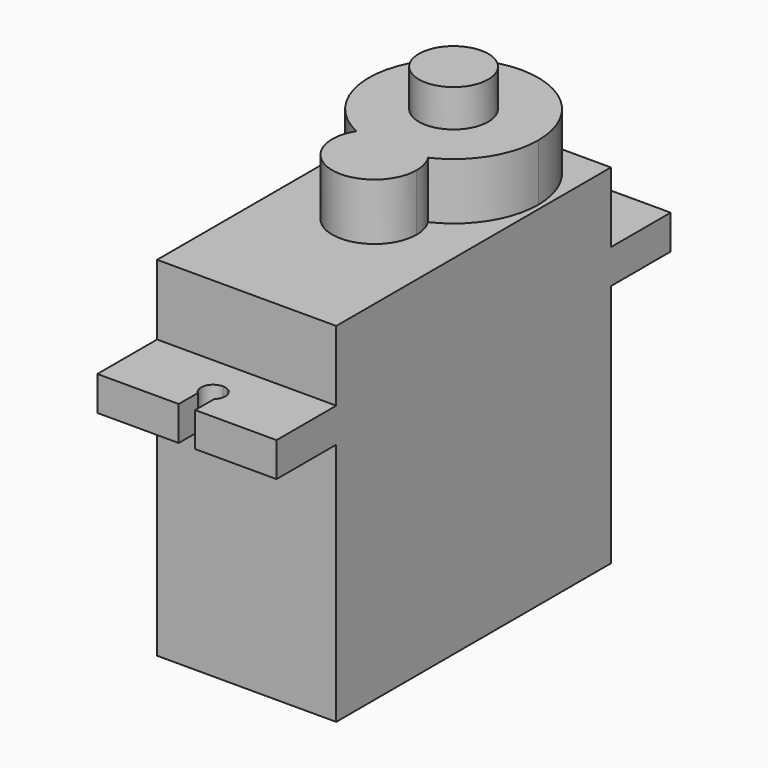
from build123d import *

# Parameters (mm, degrees)
F0_W          = 12
F0_H          = 23
F1_DEPTH      = 23.35
F2_W          = 12
F2_H          = 2.3
F3_DEPTH      = 5
F3_DEPTH_BACK = 28
F5_DEPTH      = 3.8
F6_R          = 2.325
F7_DEPTH      = 2.5
F9_DEPTH      = 25
F11_DEPTH     = 25


with BuildPart() as f1:
    # F0 (on Top) → F1 (new body)
    with BuildSketch(Plane.XY):
        Rectangle(F0_W, F0_H)
    extrude(amount=F1_DEPTH)

    # F2 (on face) → F3 (join, two sides)
    with BuildSketch(Plane.XZ.offset(11.5)) as f3_sk:
        with Locations((0, 17.5)):
            Rectangle(F2_W, F2_H)
    extrude(amount=F3_DEPTH)
    extrude(f3_sk.sketch, amount=-F3_DEPTH_BACK)

    # F4 (on face) → F5 (join)
    with BuildSketch(Plane.XY.offset(23.35)):
        with BuildLine():
            ThreePointArc((5.675, 5.825), (4.0128309832, 9.8378309832), (0, 11.5))
            Line((0, 11.5), (0, 5.825))
            Line((0, 5.825), (0, 2.025))
            ThreePointArc((0, 2.025), (1.3761840956, 1.6671324113), (2.4037015124, 0.6841981132))
            ThreePointArc((2.4037015124, 0.6841981132), (4.7878299407, 2.7783117228), (5.675, 5.825))
        make_face()
        with BuildLine():
            Line((0, 5.825), (0, 11.5))
            ThreePointArc((0, 11.5), (-5.5398409592, 7.0561730773), (-2.4037015124, 0.6841981132))
            ThreePointArc((-2.4037015124, 0.6841981132), (-1.3761840956, 1.6671324113), (0, 2.025))
            Line((0, 2.025), (0, 5.825))
        make_face()
        with BuildLine():
            ThreePointArc((0, 2.025), (-1.3761840956, 1.6671324113), (-2.4037015124, 0.6841981132))
            ThreePointArc((-2.4037015124, 0.6841981132), (-1.2311730773, 0.2851590408), (0, 0.15))
            Line((0, 0.15), (0, 2.025))
        make_face()
        with BuildLine():
            ThreePointArc((0, 0.15), (-1.2311730773, 0.2851590408), (-2.4037015124, 0.6841981132))
            ThreePointArc((-2.4037015124, 0.6841981132), (-0.7714169519, -3.5176351643), (2.825, -0.8))
            ThreePointArc((2.825, -0.8), (2.7176351643, -0.0285830481), (2.4037015124, 0.6841981132))
            ThreePointArc((2.4037015124, 0.6841981132), (1.2311730773, 0.2851590408), (0, 0.15))
        make_face()
        with BuildLine():
            ThreePointArc((2.4037015124, 0.6841981132), (1.3761840956, 1.6671324113), (0, 2.025))
            Line((0, 2.025), (0, 0.15))
            ThreePointArc((0, 0.15), (1.2311730773, 0.2851590408), (2.4037015124, 0.6841981132))
        make_face()
    extrude(amount=F5_DEPTH)

    # F6 (on face) → F7 (join)
    with BuildSketch(Plane.XY.offset(27.15)):
        with Locations((0, 5.825)):
            Circle(F6_R)
    extrude(amount=F7_DEPTH)

    # F8 (on face) → F9 (cut)
    with BuildSketch(Plane.XY.offset(18.65)):
        with BuildLine():
            Line((0.55, 14.9), (-0.55, 14.9))
            ThreePointArc((-0.55, 14.9), (-0.7585725469, 14.0049276511), (0, 13.4860589702))
            ThreePointArc((0, 13.4860589702), (0.5755432217, 13.7244567783), (0.8139410298, 14.3))
            ThreePointArc((0.8139410298, 14.3), (0.7450394508, 14.6277441331), (0.55, 14.9))
        make_face()
        with BuildLine():
            Line((0.55, 16.5), (-0.55, 16.5))
            Line((-0.55, 16.5), (-0.55, 14.9))
            ThreePointArc((-0.55, 14.9), (0, 15.1139410298), (0.55, 14.9))
            Line((0.55, 14.9), (0.55, 16.5))
        make_face()
        with BuildLine():
            ThreePointArc((0.55, 14.9), (0, 15.1139410298), (-0.55, 14.9))
            Line((-0.55, 14.9), (0.55, 14.9))
        make_face()
    extrude(amount=-F9_DEPTH, mode=Mode.SUBTRACT)

    # F10 (on face) → F11 (cut)
    with BuildSketch(Plane.XY.offset(18.65)):
        with BuildLine():
            ThreePointArc((0, -13.4860589702), (-0.7585725469, -14.0049276511), (-0.55, -14.9))
            Line((-0.55, -14.9), (0.55, -14.9))
            ThreePointArc((0.55, -14.9), (0.7450394508, -14.6277441331), (0.8139410298, -14.3))
            ThreePointArc((0.8139410298, -14.3), (0.5755432217, -13.7244567783), (0, -13.4860589702))
        make_face()
        with BuildLine():
            ThreePointArc((0.55, -14.9), (0, -15.1139410298), (-0.55, -14.9))
            Line((-0.55, -14.9), (-0.55, -18.1))
            Line((-0.55, -18.1), (0.55, -18.1))
            Line((0.55, -18.1), (0.55, -14.9))
        make_face()
        with BuildLine():
            Line((0.55, -14.9), (-0.55, -14.9))
            ThreePointArc((-0.55, -14.9), (0, -15.1139410298), (0.55, -14.9))
        make_face()
    extrude(amount=-F11_DEPTH, mode=Mode.SUBTRACT)


solid = f1.part
